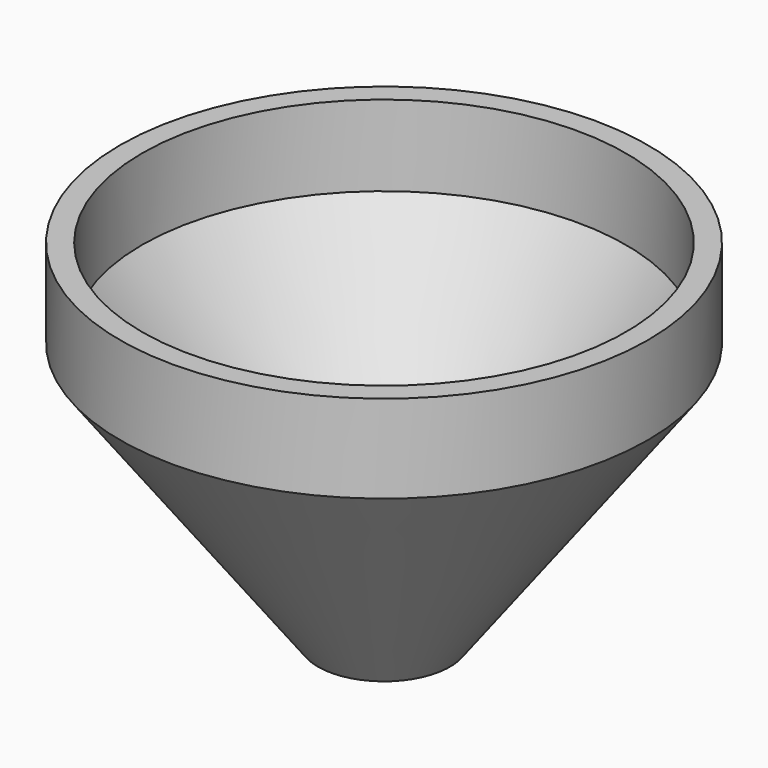
from build123d import *

# Parameters (mm, degrees)
F2_T = -2.5


with BuildPart() as f1:
    # F0 (on Front) → F1 (revolve)
    with BuildSketch(Plane.XZ):
        Polygon((-30, 40), (-30, 30), (-7.5, 0), (0, 0), (0, 40), align=None)
    revolve(axis=Axis((0, 0, 20), (0, 0, -1)))

    # F2
    f2_openings = [f1.faces().sort_by_distance(p)[0] for p in [
        (0, 0, 40),
    ]]
    offset(amount=F2_T, openings=f2_openings)


solid = f1.part
